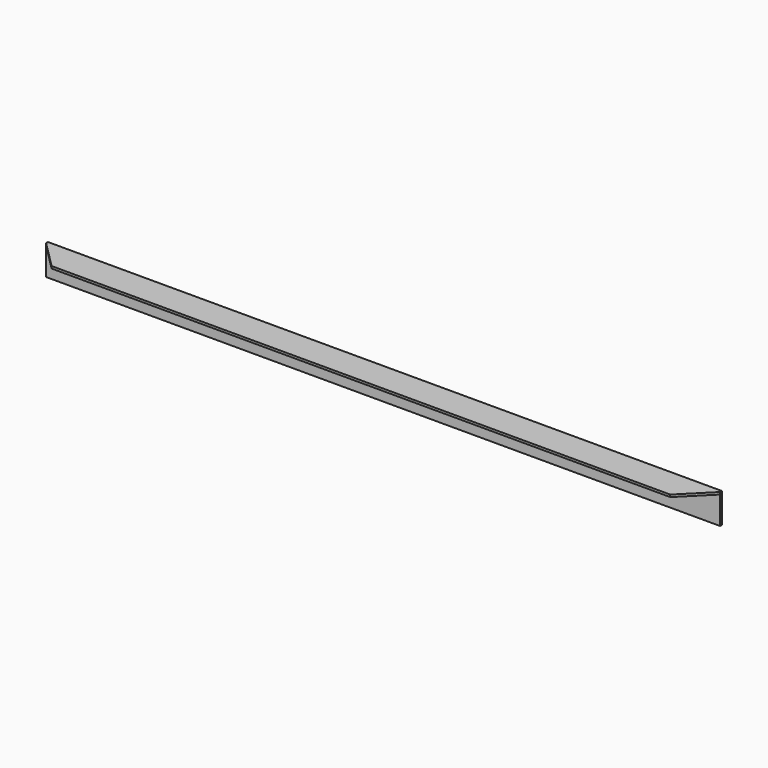
from build123d import *

# Parameters (mm, degrees)
F1_DEPTH = 900
F2_SIZE  = 37
F3_SIZE  = 37


with BuildPart() as f1:
    # F0 (on Right) → F1 (new body)
    with BuildSketch(Plane.YZ):
        Polygon((37, 37), (37, 0), (40, 0), (40, 40), (0, 40), (0, 37), align=None)
    extrude(amount=F1_DEPTH)

    # F2
    f2_edges = [f1.edges().sort_by_distance(p)[0] for p in [
        (900, 0, 38.5),
    ]]
    chamfer(f2_edges, length=F2_SIZE)

    # F3
    f3_edges = [f1.edges().sort_by_distance(p)[0] for p in [
        (0, 0, 38.5),
    ]]
    chamfer(f3_edges, length=F3_SIZE)


solid = f1.part
